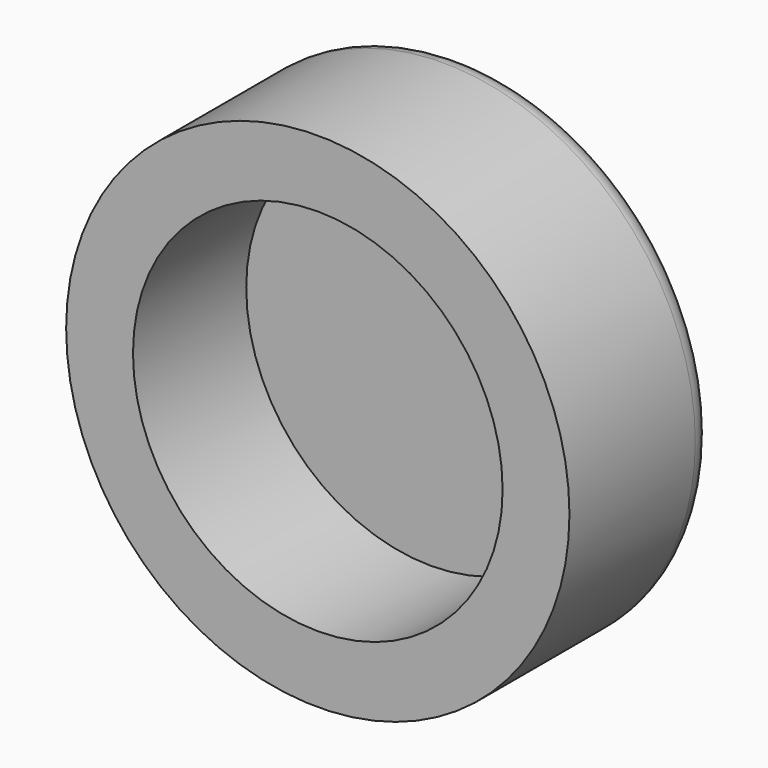
from build123d import *

# Parameters (mm, degrees)
F0_R     = 16
F1_DEPTH = 2.5
F2_R     = 16
F2_R_2   = 11.75
F3_DEPTH = 9
F4_R     = 1.5


with BuildPart() as f1:
    # F0 (on Front) → F1 (new body)
    with BuildSketch(Plane.XZ):
        Circle(F0_R)
    extrude(amount=F1_DEPTH)

    # F2 (on face) → F3 (join)
    with BuildSketch(Plane.XZ.offset(2.5)):
        Circle(F2_R)
        Circle(F2_R_2, mode=Mode.SUBTRACT)
    extrude(amount=F3_DEPTH)

    # F4
    f4_edges = [f1.edges().sort_by_distance(p)[0] for p in [
        (-16, 0, 0),
    ]]
    fillet(f4_edges, radius=F4_R)


solid = f1.part
